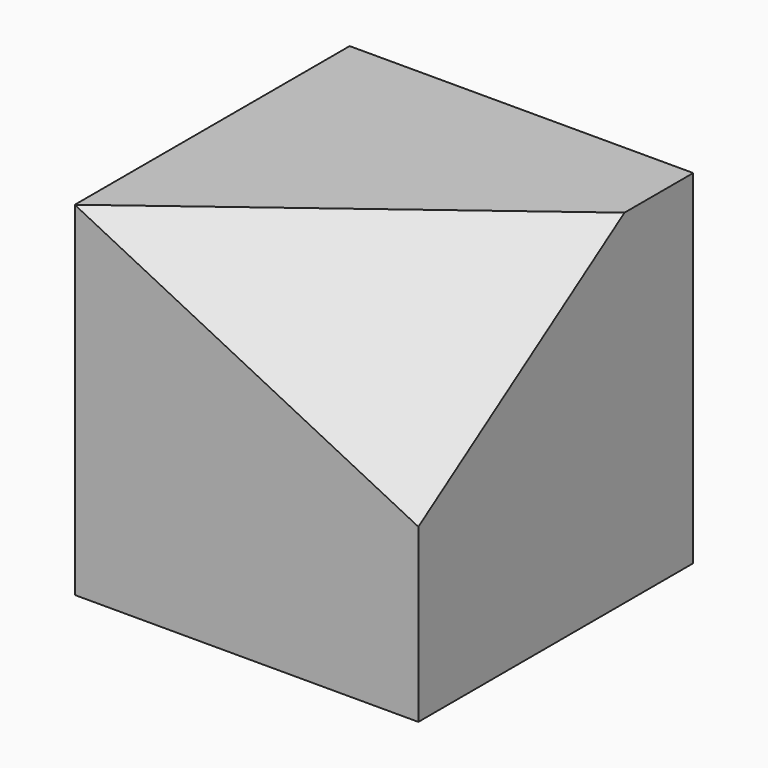
from build123d import *

# Parameters (mm, degrees)
F0_W     = 4
F0_H     = 4
F1_DEPTH = 4
F5_DEPTH = 25


with BuildPart() as f1:
    # F0 (on Top) → F1 (new body)
    with BuildSketch(Plane.XY):
        with Locations((2, 2)):
            Rectangle(F0_W, F0_H)
    extrude(amount=F1_DEPTH)

    # F4 (on 3pt) → F5 (cut)
    with BuildSketch(Plane(origin=(1.1803278689, -1.5737704918, 2.3606557377), x_dir=(0.9232870715, 0.2130662473, -0.3195993709), z_dir=(-0.3841106398, 0.5121475197, -0.7682212796))):
        Polygon((3.0539495442, -1.1094003925), (-1.2783974836, -2.2188007849), (3.0539495442, -4.7149516679), align=None)
    extrude(amount=-F5_DEPTH, mode=Mode.SUBTRACT)


solid = f1.part
